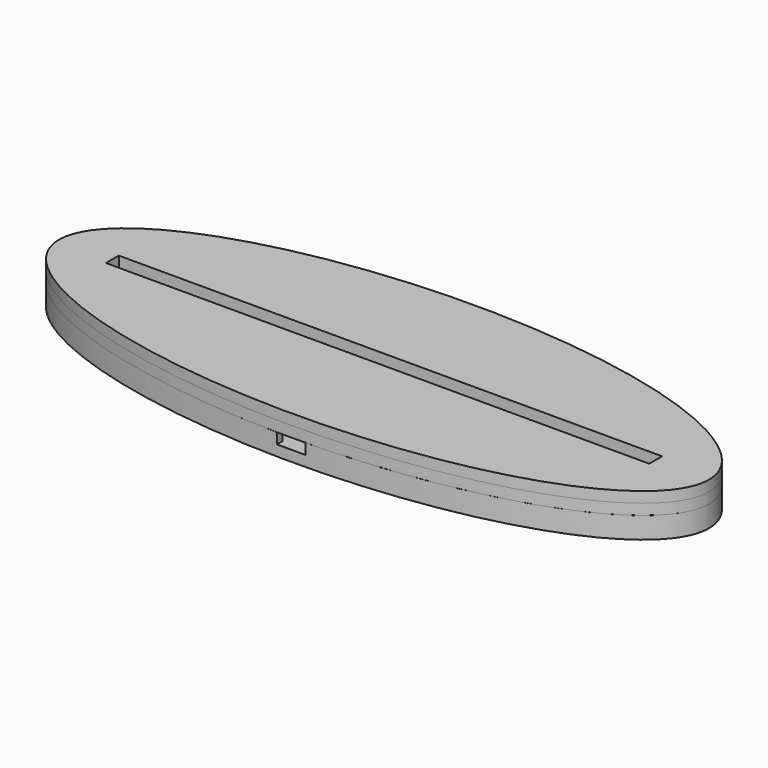
from build123d import *

# Parameters (mm, degrees)
BOX_BOTTOM_HALF_0_W     = 184.000896
BOX_BOTTOM_HALF_0_H     = 66.997861
BOX_BOTTOM_HALF_0_DEPTH = 7
PAD_DEPTH               = 6
POCKET_DEPTH            = 3
SKETCH002_W             = 18
SKETCH002_H             = 20
POCKET001_DEPTH         = 3
SKETCH003_W             = 12
SKETCH003_H             = 5.5
SKETCH003_W_2           = 8
SKETCH003_H_2           = 2.1
POCKET002_DEPTH         = 3
PAD001_DEPTH            = 3
SKETCH005_W             = 164.15
SKETCH005_H             = 4.44
POCKET003_DEPTH         = 3
SKETCH006_W             = 152.15
SKETCH006_H             = 4.5
PAD002_DEPTH            = 3


with BuildPart() as box_bottom_half_0_body:
    # box_bottom_half_0 → box_bottom_half_0 (new body)
    with BuildSketch(Plane(origin=(-91.999523, -33.499875, -1), x_dir=(1, 0, 0), z_dir=(0, 0, 1))):
        with Locations((92.000448, 33.498931)):
            Rectangle(BOX_BOTTOM_HALF_0_W, BOX_BOTTOM_HALF_0_H)
    extrude(amount=BOX_BOTTOM_HALF_0_DEPTH)


with BuildPart() as body:
    # Sketch → Pad (new body)
    with BuildSketch(Plane.XY):
        with BuildLine():
            add(Edge.make_bspline(
                [(91.001374, 0), (91.001374, 56.291651), (-45.500687, 28.145826), (-182.002747, 0), (-45.500687, -28.145826), (91.001374, -56.291651), (91.001374, 0)],
                knots=[0, 0, 0, 2.094395, 2.094395, 4.18879, 4.18879, 6.283185, 6.283185, 6.283185], degree=2, weights=[1, 0.5, 1, 0.5, 1, 0.5, 1]))
        make_face()
    extrude(amount=PAD_DEPTH)

    # Sketch001 (on Face3 of Pad) → Pocket (cut)
    with BuildSketch(Plane.XY.offset(6)):
        with BuildLine():
            ThreePointArc((-82.8, 5), (-87.8, 0), (-82.8, -5))
            Line((-82.8, -5), (82.8, -5))
            ThreePointArc((82.8, -5), (87.8, 0), (82.8, 5))
            Line((-82.8, 5), (82.8, 5))
        make_face()
    extrude(amount=-POCKET_DEPTH, mode=Mode.SUBTRACT)

    # Sketch002 (on Face3 of Pocket) → Pocket001 (cut)
    with BuildSketch(Plane.XY.offset(6)):
        with Locations((0, -20.5)):
            Rectangle(SKETCH002_W, SKETCH002_H)
    extrude(amount=-POCKET001_DEPTH, mode=Mode.SUBTRACT)

    # Sketch003 (on Face3 of Pocket001) → Pocket002 (cut)
    with BuildSketch(Plane.XY.offset(6)):
        with Locations((0, -7.75)):
            Rectangle(SKETCH003_W, SKETCH003_H)
        with Locations((0, -31.55)):
            Rectangle(SKETCH003_W_2, SKETCH003_H_2)
    extrude(amount=-POCKET002_DEPTH, mode=Mode.SUBTRACT)

    # Sketch004 (on Face3 of Pocket002) → Pad001 (join)
    with BuildSketch(Plane.XY.offset(6)):
        with BuildLine():
            add(Edge.make_bspline(
                [(91.001374, 0), (91.001374, 56.291651), (-45.500687, 28.145826), (-182.002747, 0), (-45.500687, -28.145826), (91.001374, -56.291651), (91.001374, 0)],
                knots=[0, 0, 0, 2.094395, 2.094395, 4.18879, 4.18879, 6.283185, 6.283185, 6.283185], degree=2, weights=[1, 0.5, 1, 0.5, 1, 0.5, 1]))
        make_face()
    extrude(amount=PAD001_DEPTH)

    # Sketch005 (on Face8 of Pad001) → Pocket003 (cut)
    with BuildSketch(Plane.XY.offset(9)):
        Rectangle(SKETCH005_W, SKETCH005_H)
    extrude(amount=-POCKET003_DEPTH, mode=Mode.SUBTRACT)

    # Sketch006 (on Face8 of Pocket003) → Pad002 (join)
    with BuildSketch(Plane.XY.offset(9)):
        with BuildLine():
            add(Edge.make_bspline(
                [(91.001374, 0), (91.001374, 56.291651), (-45.500687, 28.145826), (-182.002747, 0), (-45.500687, -28.145826), (91.001374, -56.291651), (91.001374, 0)],
                knots=[0, 0, 0, 2.094395, 2.094395, 4.18879, 4.18879, 6.283185, 6.283185, 6.283185], degree=2, weights=[1, 0.5, 1, 0.5, 1, 0.5, 1]))
        make_face()
        Rectangle(SKETCH006_W, SKETCH006_H, mode=Mode.SUBTRACT)
    extrude(amount=PAD002_DEPTH)


with BuildPart() as bottom_half_0_body:
    # bottom_half_0 base: copy of Body
    add(body.part)

    # bottom_half_0: intersect box_bottom_half_0 body
    add(box_bottom_half_0_body.part, mode=Mode.INTERSECT)


with BuildPart() as top_half_0_body:
    # top_half_0 base: copy of Body
    add(body.part)

    # top_half_0: cut box_bottom_half_0 body
    add(box_bottom_half_0_body.part, mode=Mode.SUBTRACT)


solid = Compound([bottom_half_0_body.part, top_half_0_body.part])
